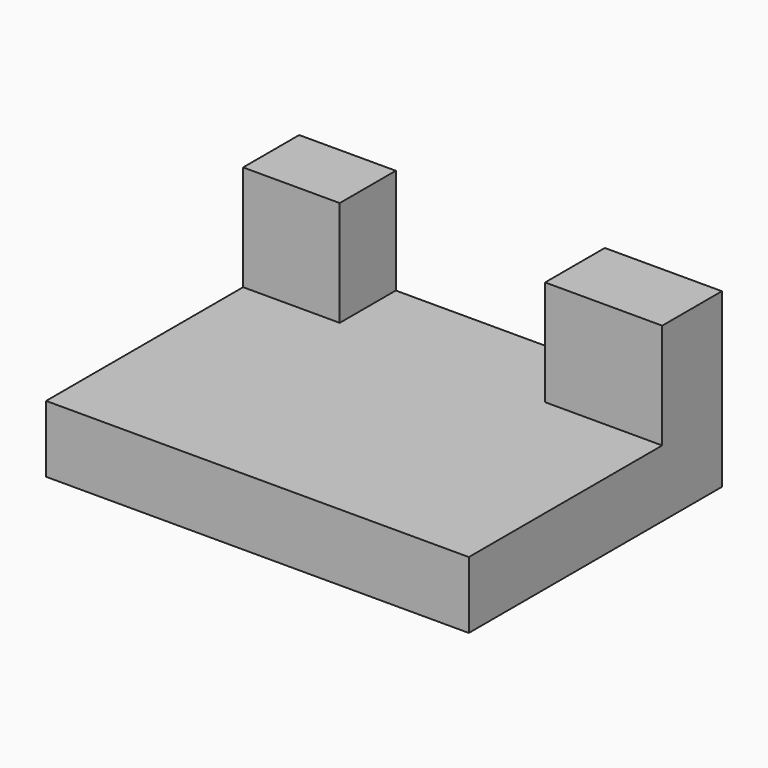
from build123d import *

# Parameters (mm, degrees)
F0_W     = 101.83091
F0_H     = 16.094854
F1_DEPTH = 76.2
F2_W     = 28.20583
F2_H     = 17.97919
F3_DEPTH = 25.4
F4_W     = 23.275787
F4_H     = 16.877076
F5_DEPTH = 25.4


with BuildPart() as f1:
    # F0 (on Front) → F1 (new body)
    with BuildSketch(Plane.XZ):
        with Locations((10.987835, -32.653985)):
            Rectangle(F0_W, F0_H)
    extrude(amount=F1_DEPTH)

    # F2 (on face) → F3 (join)
    with BuildSketch(Plane.XY.offset(-24.606558)):
        with Locations((47.800375, -8.989595)):
            Rectangle(F2_W, F2_H)
    extrude(amount=F3_DEPTH)

    # F4 (on face) → F5 (join)
    with BuildSketch(Plane.XY.offset(-24.606558)):
        with Locations((-28.289727, -8.438538)):
            Rectangle(F4_W, F4_H)
    extrude(amount=F5_DEPTH)


solid = f1.part
